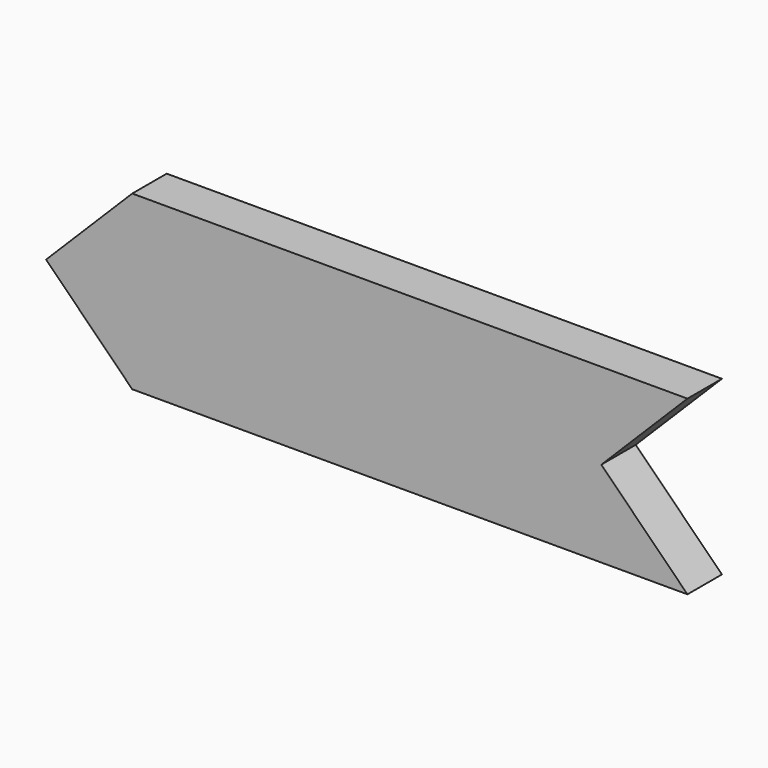
from build123d import *

# Parameters (mm, degrees)
F1_DEPTH = 3.175


with BuildPart() as f1:
    # F0 (on Front) → F1 (new body, symmetric)
    with BuildSketch(Plane.XZ):
        Polygon((-158.961588, -139.7), (-158.961588, -152.4), (-89.811819, -152.4), (-77.111819, -139.7), align=None)
        Polygon((-89.811819, -152.4), (-158.961588, -152.4), (-158.961588, -165.1), (-77.111819, -165.1), align=None)
        Polygon((-158.961588, -139.7), (-171.661588, -152.4), (-158.961588, -152.4), align=None)
        Polygon((-158.961588, -152.4), (-171.661588, -152.4), (-158.961588, -165.1), align=None)
    extrude(amount=F1_DEPTH, both=True)


solid = f1.part
